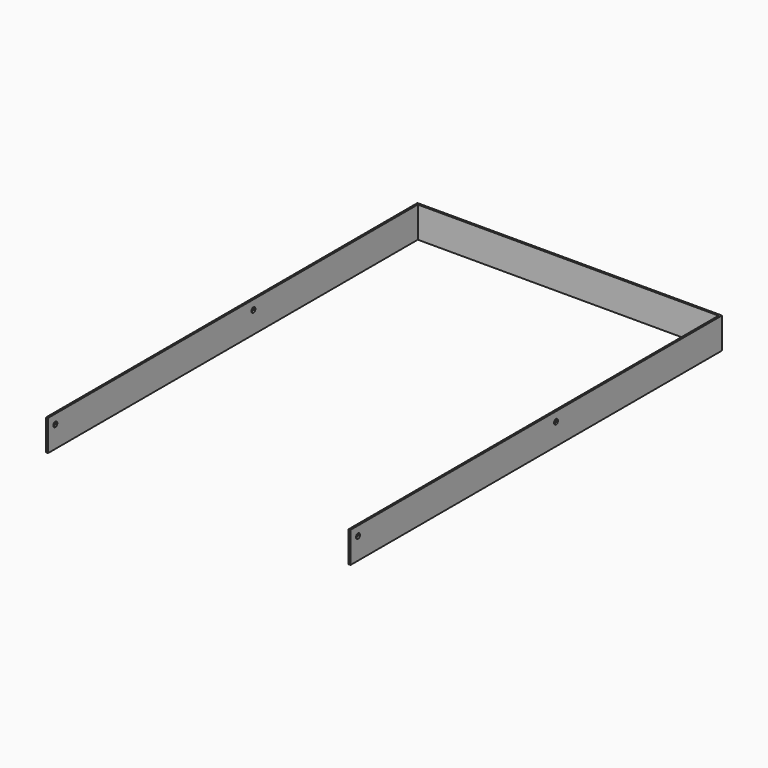
from build123d import *

# Parameters (mm, degrees)
F0_W     = 747
F0_H     = 50
F0_R     = 4
F0_W_2   = 3
F1_DEPTH = 3
F2_DEPTH = 486
F3_W     = 750
F3_H     = 50
F3_R     = 4
F4_DEPTH = 3


with BuildPart() as f1:
    # F0 (on Right) → F1 (new body)
    with BuildSketch(Plane.YZ):
        with Locations((274.845328, 248.377842)):
            Rectangle(F0_W, F0_H)
        with Locations((-83.654672, 258.377842)):
            Circle(F0_R, mode=Mode.SUBTRACT)
        with Locations((316.345328, 258.377842)):
            Circle(F0_R, mode=Mode.SUBTRACT)
        with Locations((649.845328, 248.377842)):
            Rectangle(F0_W_2, F0_H)
    extrude(amount=F1_DEPTH)

    # F0 (on Right) → F2 (join)
    with BuildSketch(Plane.YZ):
        with Locations((649.845328, 248.377842)):
            Rectangle(F0_W_2, F0_H)
    extrude(amount=-F2_DEPTH)

    # F3 (on face) → F4 (join)
    with BuildSketch(Plane(origin=(-486, 0, 0), x_dir=(0, -1, 0), z_dir=(-1, 0, 0))):
        with Locations((-276.345328, 248.377842)):
            Rectangle(F3_W, F3_H)
        with Locations((-316.345328, 258.377842)):
            Circle(F3_R, mode=Mode.SUBTRACT)
        with Locations((83.654672, 258.377842)):
            Circle(F3_R, mode=Mode.SUBTRACT)
    extrude(amount=F4_DEPTH)


solid = f1.part
